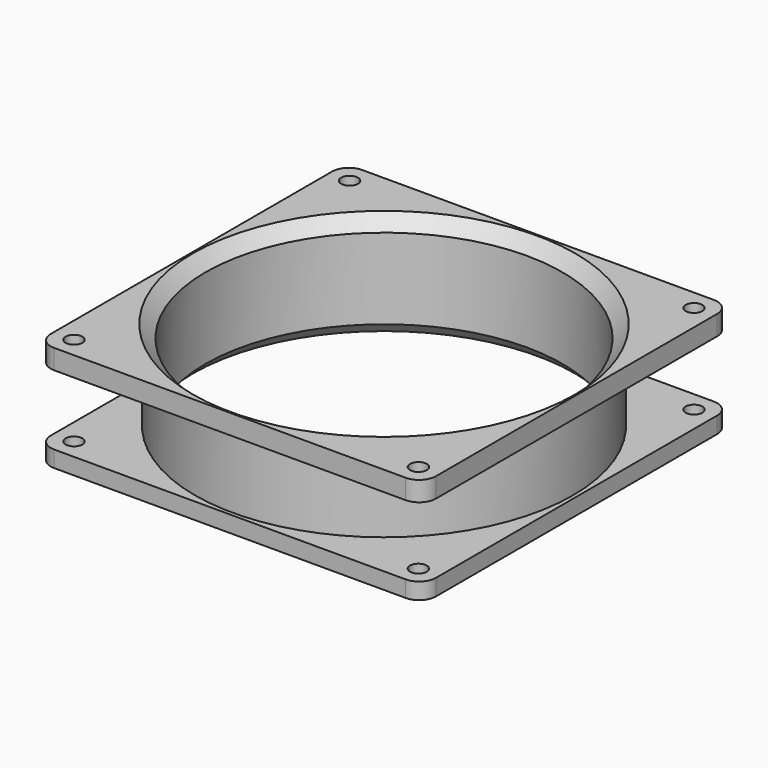
from build123d import *

# Parameters (mm, degrees)
SKETCH_R        = 45
SKETCH_R_2      = 42.5
PAD_DEPTH       = 12.6
SKETCH001_R     = 2
SKETCH001_R_2   = 44.5
PAD001_DEPTH    = 4.7
SKETCH002_R     = 2
SKETCH002_R_2   = 44.5
PAD002_DEPTH    = 3.9
CHAMFER_SIZE    = 3
CHAMFER001_SIZE = 3


with BuildPart() as part:
    # Sketch → Pad (new body, symmetric)
    with BuildSketch(Plane.XY):
        Circle(SKETCH_R)
        Circle(SKETCH_R_2, mode=Mode.SUBTRACT)
    extrude(amount=PAD_DEPTH, both=True)

    # Sketch001 (on Face4 of Pad) → Pad001 (join)
    with BuildSketch(Plane.XY.offset(12.6)):
        with BuildLine():
            Line((-41.85, 45.85), (41.85, 45.85))
            ThreePointArc((45.85, 41.85), (44.678427, 44.678427), (41.85, 45.85))
            Line((45.85, 41.85), (45.85, -41.85))
            ThreePointArc((41.85, -45.85), (44.678427, -44.678427), (45.85, -41.85))
            Line((41.85, -45.85), (-41.85, -45.85))
            ThreePointArc((-45.85, -41.85), (-44.678427, -44.678427), (-41.85, -45.85))
            Line((-45.85, -41.85), (-45.85, 41.85))
            ThreePointArc((-41.85, 45.85), (-44.678427, 44.678427), (-45.85, 41.85))
        make_face()
        with Locations((-41, 41)):
            Circle(SKETCH001_R, mode=Mode.SUBTRACT)
        with Locations((41, 41)):
            Circle(SKETCH001_R, mode=Mode.SUBTRACT)
        with Locations((-41, -41)):
            Circle(SKETCH001_R, mode=Mode.SUBTRACT)
        with Locations((41, -41)):
            Circle(SKETCH001_R, mode=Mode.SUBTRACT)
        Circle(SKETCH001_R_2, mode=Mode.SUBTRACT)
    extrude(amount=-PAD001_DEPTH)

    # Sketch002 (on Face2 of Pad001) → Pad002 (join)
    with BuildSketch(Plane(origin=(0, 0, -12.6), x_dir=(1, 0, 0), z_dir=(0, 0, -1))):
        with BuildLine():
            Line((-41.85, 45.85), (41.85, 45.85))
            ThreePointArc((45.85, 41.85), (44.678427, 44.678427), (41.85, 45.85))
            Line((45.85, 41.85), (45.85, -41.85))
            ThreePointArc((41.85, -45.85), (44.678427, -44.678427), (45.85, -41.85))
            Line((41.85, -45.85), (-41.85, -45.85))
            ThreePointArc((-45.85, -41.85), (-44.678427, -44.678427), (-41.85, -45.85))
            Line((-45.85, -41.85), (-45.85, 41.85))
            ThreePointArc((-41.85, 45.85), (-44.678427, 44.678427), (-45.85, 41.85))
        make_face()
        with Locations((-41, 41)):
            Circle(SKETCH002_R, mode=Mode.SUBTRACT)
        with Locations((41, 41)):
            Circle(SKETCH002_R, mode=Mode.SUBTRACT)
        with Locations((-41, -41)):
            Circle(SKETCH002_R, mode=Mode.SUBTRACT)
        with Locations((41, -41)):
            Circle(SKETCH002_R, mode=Mode.SUBTRACT)
        Circle(SKETCH002_R_2, mode=Mode.SUBTRACT)
    extrude(amount=-PAD002_DEPTH)

    # Chamfer
    chamfer_edges = [part.edges().sort_by_distance(p)[0] for p in [
        (-42.5, 0, 12.6),
    ]]
    chamfer(chamfer_edges, length=CHAMFER_SIZE)

    # Chamfer001
    chamfer001_edges = [part.edges().sort_by_distance(p)[0] for p in [
        (-42.5, 0, -12.6),
    ]]
    chamfer(chamfer001_edges, length=CHAMFER001_SIZE)


solid = part.part
